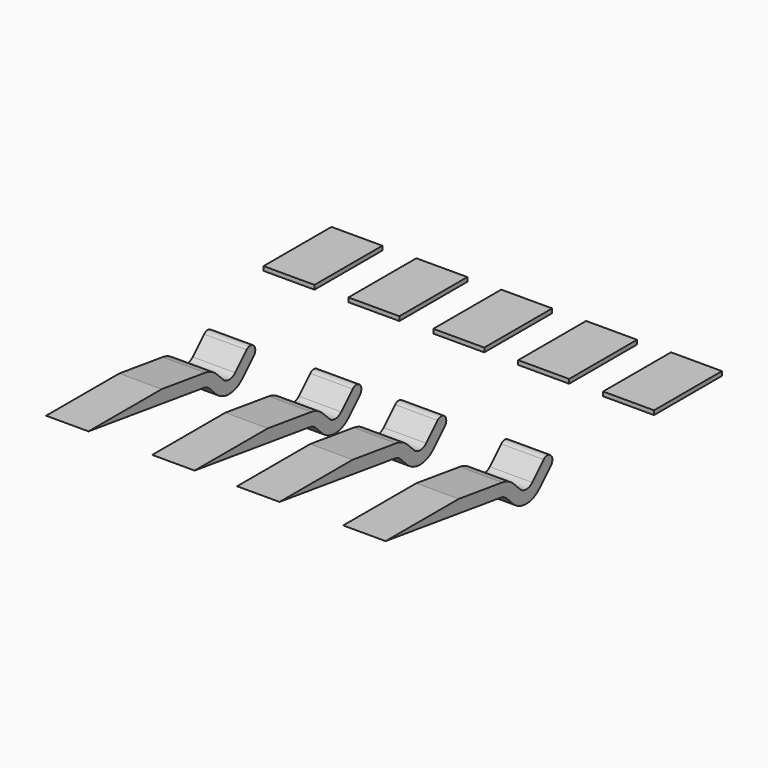
from build123d import *

# Parameters (mm, degrees)
EXTRUDE010_DEPTH = 1
BOX053_W         = 1.2
BOX053_H         = 2
BOX053_DEPTH     = 0.1
ARRAY015_X_COUNT = 5
ARRAY015_X_PITCH = 2


with BuildPart() as extrude017:
    # Sketch037 → Extrude010 (new body)
    with BuildSketch(Plane.YZ):
        with BuildLine():
            Line((1.279699, -0.17985), (0, 0))
            Line((0, 0), (-2.155589, 0))
            Line((-2.155589, 0), (1.237947, -0.47693))
            ThreePointArc((1.408328, -0.561879), (1.330055, -0.505531), (1.237947, -0.47693))
            Line((1.408328, -0.561879), (1.596448, -0.749999))
            ThreePointArc((1.596448, -0.749999), (1.985356, -0.91109), (2.374264, -0.75))
            Line((2.374264, -0.75), (2.712132, -0.412132))
            ThreePointArc((2.712132, -0.412132), (2.712132, -0.2), (2.5, -0.2))
            Line((2.162133, -0.537867), (2.5, -0.2))
            ThreePointArc((1.80858, -0.537867), (1.985356, -0.61109), (2.162133, -0.537867))
            Line((1.62046, -0.349747), (1.80858, -0.537867))
            ThreePointArc((1.62046, -0.349747), (1.463914, -0.23705), (1.279699, -0.17985))
        make_face()
    extrude(amount=EXTRUDE010_DEPTH)


with BuildPart() as extrude017_1:
    # Extrude010 placement: moved
    add(extrude017.part.moved(Location((-4, 0, 0))))


with BuildPart() as extrude010:
    # Clone021 base: copy of Extrude017
    add(extrude017_1.part)


with BuildPart() as extrude010_1:
    # Clone021 placement: moved
    add(extrude010.part.moved(Location((2.5, 0, 0))))


with BuildPart() as extrude011:
    # Clone022 base: copy of Extrude017
    add(extrude017_1.part)


with BuildPart() as extrude011_1:
    # Clone022 placement: moved
    add(extrude011.part.moved(Location((4.5, 0, 0))))


with BuildPart() as extrude012:
    # Clone023 base: copy of Extrude017
    add(extrude017_1.part)


with BuildPart() as extrude012_1:
    # Clone023 placement: moved
    add(extrude012.part.moved(Location((7, 0, 0))))


with BuildPart() as fusion040:
    # Fusion040 base: copy of Extrude017
    add(extrude017_1.part)

    # Fusion040: union Extrude010, Extrude011, Extrude012
    add(extrude010_1.part)
    add(extrude011_1.part)
    add(extrude012_1.part)


with BuildPart() as fusion040_1:
    # Fusion040 placement: moved
    add(fusion040.part.moved(Location((0, 10, 12.6))))


with BuildPart() as fusion041:
    # Box053 → Box053 (new body)
    with BuildSketch(Plane(origin=(-4.6, 15, 12.5), x_dir=(1, 0, 0), z_dir=(0, 0, 1))):
        with Locations((0.6, 1)):
            Rectangle(BOX053_W, BOX053_H)
    extrude(amount=BOX053_DEPTH)

    # Array015 X: Fusion041 ×5


with BuildPart() as fusion041_1:
    add(fusion041.part)
    with Locations(*[(i * ARRAY015_X_PITCH, 0, 0) for i in range(1, ARRAY015_X_COUNT)]):
        add(fusion041.part)

    # Fusion041: union Fusion040
    add(fusion040_1.part)


solid = fusion041_1.part
